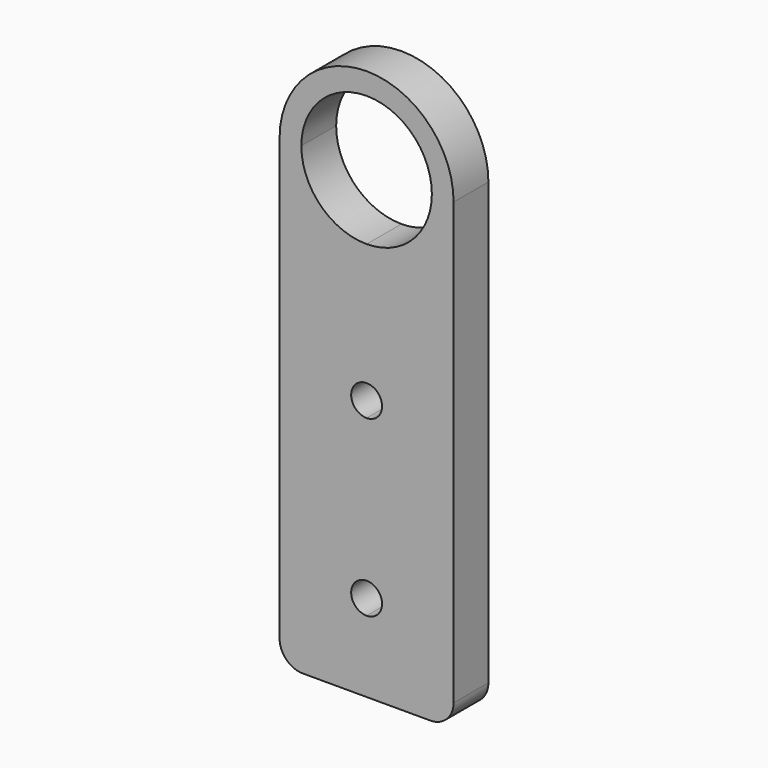
from build123d import *

# Parameters (mm, degrees)
F1_DEPTH = 9.525
F3_R     = 5.08


with BuildPart() as f1:
    # F0 (on Front) → F1 (new body)
    with BuildSketch(Plane.XZ):
        with BuildLine():
            Line((0, 101.6), (0, 0))
            Line((0, 0), (19.05, 0))
            Line((19.05, 0), (19.05, 15.6718))
            ThreePointArc((19.05, 15.6718), (15.6718, 19.05), (19.05, 22.4282))
            Line((19.05, 22.4282), (19.05, 53.7718))
            ThreePointArc((19.05, 53.7718), (15.6718, 57.15), (19.05, 60.5282))
            Line((19.05, 60.5282), (19.05, 87.3125))
            ThreePointArc((19.05, 87.3125), (8.947212, 91.497212), (4.7625, 101.6))
            Line((4.7625, 101.6), (0, 101.6))
        make_face()
        with BuildLine():
            Line((19.05, 15.6718), (19.05, 0))
            Line((19.05, 0), (38.1, 0))
            Line((38.1, 0), (38.1, 101.6))
            Line((38.1, 101.6), (33.3375, 101.6))
            ThreePointArc((33.3375, 101.6), (29.152788, 91.497212), (19.05, 87.3125))
            Line((19.05, 87.3125), (19.05, 60.5282))
            ThreePointArc((19.05, 60.5282), (21.438748, 59.538748), (22.4282, 57.15))
            ThreePointArc((22.4282, 57.15), (21.438748, 54.761252), (19.05, 53.7718))
            Line((19.05, 53.7718), (19.05, 22.4282))
            ThreePointArc((19.05, 22.4282), (21.438748, 21.438748), (22.4282, 19.05))
            ThreePointArc((22.4282, 19.05), (21.438748, 16.661252), (19.05, 15.6718))
        make_face()
        with BuildLine():
            ThreePointArc((38.1, 101.6), (19.05, 120.65), (0, 101.6))
            Line((0, 101.6), (4.7625, 101.6))
            ThreePointArc((4.7625, 101.6), (19.05, 115.8875), (33.3375, 101.6))
            Line((33.3375, 101.6), (38.1, 101.6))
        make_face()
    extrude(amount=-F1_DEPTH)

    # F3
    f3_edges = [f1.edges().sort_by_distance(p)[0] for p in [
        (38.1, 4.7625, 0),
        (0, 4.7625, 0),
    ]]
    fillet(f3_edges, radius=F3_R)


solid = f1.part
